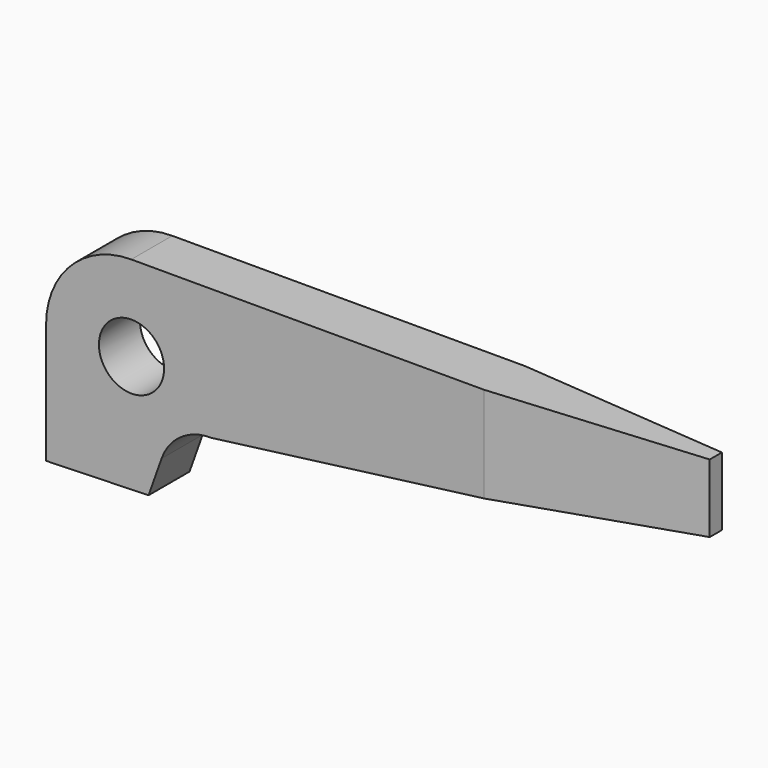
from build123d import *

# Parameters (mm, degrees)
F1_DEPTH = 4.7625
F2_R     = 3.027234
F3_DEPTH = 25.4
F5_DEPTH = 25.4


with BuildPart() as f1:
    # F0 (on Front) → F1 (new body)
    with BuildSketch(Plane.XZ):
        with BuildLine():
            Line((60.325, 19.05), (7.914832, 19.05))
            ThreePointArc((7.914832, 19.05), (2.318201, 16.731799), (0, 11.135168))
            Line((0, 11.135168), (0, 0))
            Line((0, 0), (9.520886, 0.27992))
            Line((9.520886, 0.27992), (10.734157, 3.685592))
            ThreePointArc((10.734157, 3.685592), (12.533664, 6.029149), (15.364371, 6.876249))
            Line((15.364371, 6.876249), (60.325, 12.7))
            Line((60.325, 12.7), (60.325, 19.05))
        make_face()
    extrude(amount=F1_DEPTH)

    # F2 (on face) → F3 (cut)
    with BuildSketch(Plane.XZ.offset(4.7625)):
        with Locations((7.937468, 11.1125)):
            Circle(F2_R)
    extrude(amount=-F3_DEPTH, mode=Mode.SUBTRACT)

    # F4 (on face) → F5 (cut)
    with BuildSketch(Plane.XY.offset(19.05)):
        Polygon((40.704425, 0), (60.325, -1.673274), (60.325, 0), align=None)
        Polygon((60.325, -4.7625), (60.325, -3.089226), (40.704425, -4.7625), align=None)
    extrude(amount=-F5_DEPTH, mode=Mode.SUBTRACT)


solid = f1.part
